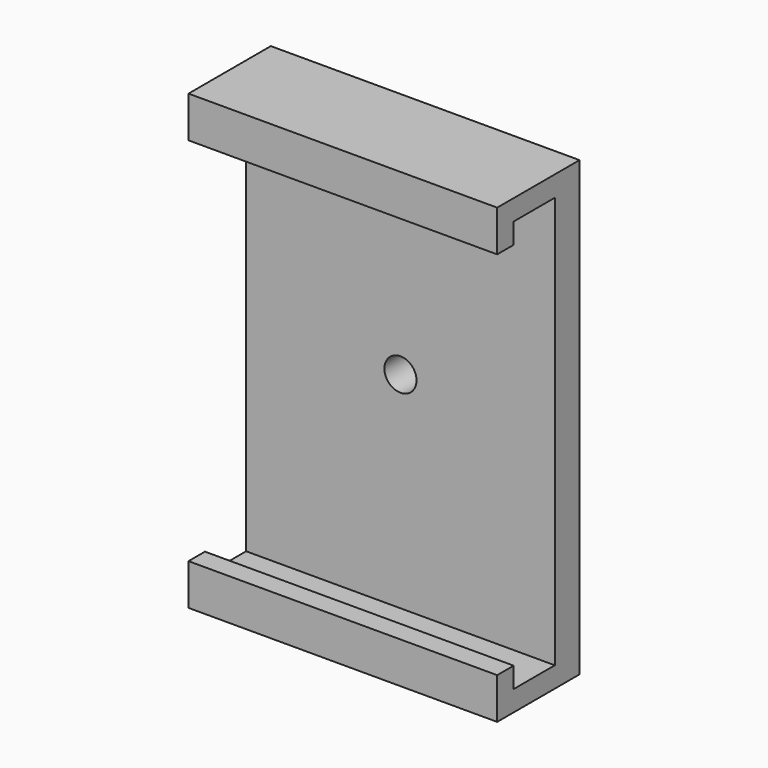
from build123d import *

# Parameters (mm, degrees)
F0_W     = 30
F0_H     = 44
F0_R     = 1.562
F1_DEPTH = 1.5
F2_W     = 30
F2_H     = 2
F3_DEPTH = 7
F4_W     = 30
F4_H     = 2
F5_DEPTH = 2
F6_W     = 30
F6_H     = 2
F7_DEPTH = 2


with BuildPart() as f1:
    # F0 (on Front) → F1 (new body, symmetric)
    with BuildSketch(Plane.XZ):
        Rectangle(F0_W, F0_H)
        Circle(F0_R, mode=Mode.SUBTRACT)
    extrude(amount=F1_DEPTH, both=True)

    # F2 (on face) → F3 (join)
    with BuildSketch(Plane.XZ.offset(1.5)):
        with Locations((0, 21)):
            Rectangle(F2_W, F2_H)
        with Locations((0, -21)):
            Rectangle(F2_W, F2_H)
    extrude(amount=F3_DEPTH)

    # F4 (on face) → F5 (join)
    with BuildSketch(Plane(origin=(0, 0, 20), x_dir=(1, 0, 0), z_dir=(0, 0, -1))):
        with Locations((0, 7.5)):
            Rectangle(F4_W, F4_H)
    extrude(amount=F5_DEPTH)

    # F6 (on face) → F7 (join)
    with BuildSketch(Plane.XY.offset(-20)):
        with Locations((0, -7.5)):
            Rectangle(F6_W, F6_H)
    extrude(amount=F7_DEPTH)


solid = f1.part
